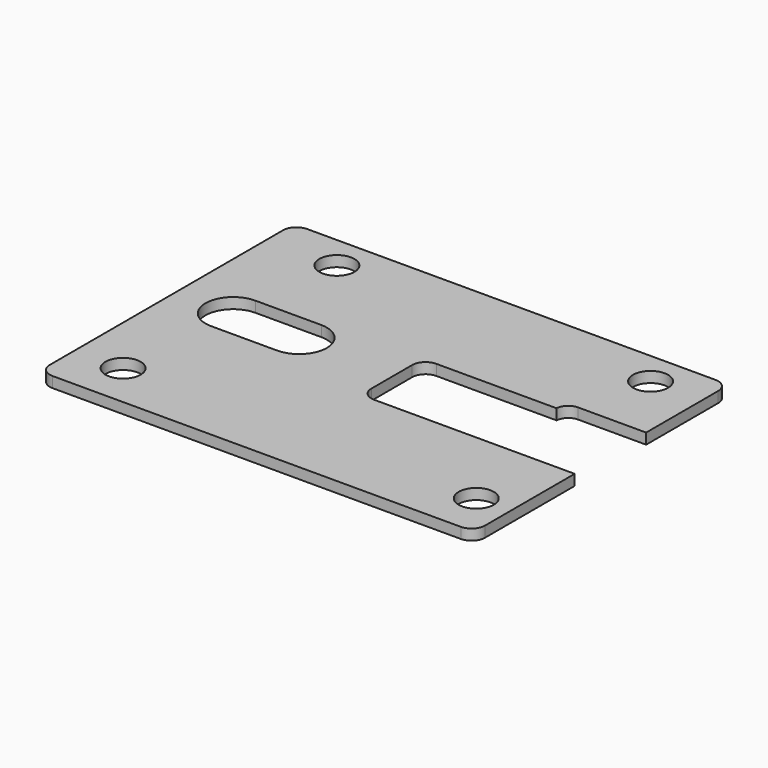
from build123d import *

# Parameters (mm, degrees)
F0_R     = 2.5019
F1_DEPTH = 1.524
F2_R     = 1.905


with BuildPart() as f1:
    # F0 (on Top) → F1 (new body)
    with BuildSketch(Plane.XY):
        with BuildLine():
            Line((0, 45.339), (0, 0))
            Line((0, 0), (61.976, 0))
            Line((61.976, 0), (61.976, 17.8816))
            Line((61.976, 17.8816), (31.496, 17.8816))
            Line((31.496, 17.8816), (31.496, 28.956))
            Line((31.496, 28.956), (50.546, 28.956))
            ThreePointArc((50.546, 28.956), (51.084474, 30.128374), (52.282527, 30.607))
            Line((52.282527, 30.607), (61.976, 30.607))
            Line((61.976, 30.607), (61.976, 45.339))
            Line((61.976, 45.339), (0, 45.339))
        make_face()
        with Locations((6.8707, 6.3627)):
            Circle(F0_R, mode=Mode.SUBTRACT)
        with Locations((57.1119, 6.4389)):
            Circle(F0_R, mode=Mode.SUBTRACT)
        with BuildLine():
            Line((8.1788, 28.2702), (12.8778, 28.2702))
            Line((12.8778, 28.2702), (17.5768, 28.2702))
            ThreePointArc((17.5768, 28.2702), (21.5138, 24.3332), (17.5768, 20.3962))
            Line((17.5768, 20.3962), (8.1788, 20.3962))
            ThreePointArc((8.1788, 20.3962), (4.2418, 24.3332), (8.1788, 28.2702))
        make_face(mode=Mode.SUBTRACT)
        with Locations((9.9695, 40.5511)):
            Circle(F0_R, mode=Mode.SUBTRACT)
        with Locations((54.6481, 40.5511)):
            Circle(F0_R, mode=Mode.SUBTRACT)
    extrude(amount=F1_DEPTH)

    # F2
    f2_edges = [f1.edges().sort_by_distance(p)[0] for p in [
        (31.496, 28.956, 0.762),
        (31.496, 17.8816, 0.762),
        (0, 45.339, 0.762),
        (0, 0, 0.762),
        (61.976, 0, 0.762),
        (61.976, 45.339, 0.762),
    ]]
    fillet(f2_edges, radius=F2_R)


solid = f1.part
